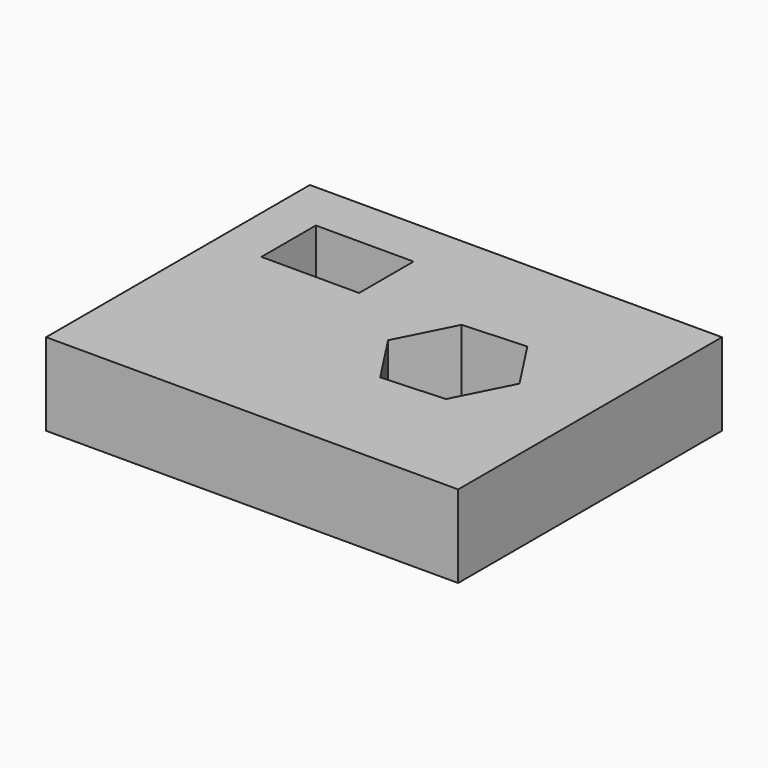
from build123d import *

# Parameters (mm, degrees)
SKETCH_W   = 50
SKETCH_H   = 40
SKETCH_W_2 = 11.856175
SKETCH_H_2 = 8.260444
PAD_DEPTH  = 10


with BuildPart() as part:
    # Sketch → Pad (new body)
    with BuildSketch(Plane.XY):
        with Locations((25, 20)):
            Rectangle(SKETCH_W, SKETCH_H)
        with Locations((11.564625, 29.737606)):
            Rectangle(SKETCH_W_2, SKETCH_H_2, mode=Mode.SUBTRACT)
        Polygon((37.512146, 13.751215), (40.977424, 20.577169), (36.798614, 26.991165), (29.154526, 26.579207), (25.689248, 19.753253), (29.868058, 13.339257), align=None, mode=Mode.SUBTRACT)
    extrude(amount=PAD_DEPTH)


solid = part.part
